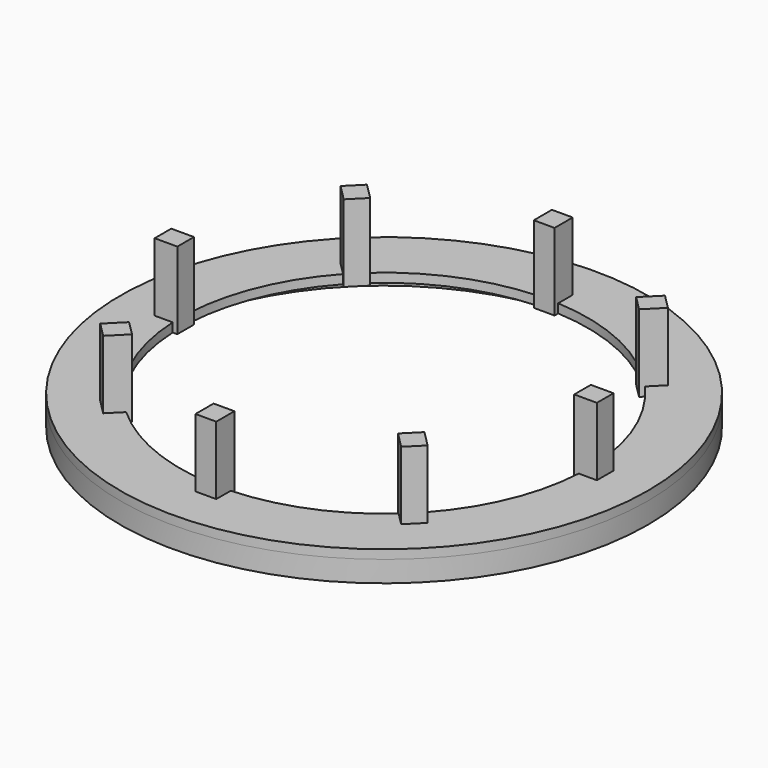
from build123d import *

# Parameters (mm, degrees)
F0_R     = 74.8284
F0_R_2   = 67.8942
F1_DEPTH = 5.969
F2_R     = 74.8284
F2_R_2   = 57.8104
F3_DEPTH = 2.54
F4_W     = 6.424342
F4_H     = 5.888975
F4_W_2   = 5.888975
F4_H_2   = 6.424342
F5_DEPTH = 21.8694


with BuildPart() as f1:
    # F0 (on Top) → F1 (new body)
    with BuildSketch(Plane.XY):
        Circle(F0_R)
        Circle(F0_R_2, mode=Mode.SUBTRACT)
    extrude(amount=-F1_DEPTH)

    # F2 (on Top) → F3 (join)
    with BuildSketch(Plane.XY):
        Circle(F2_R)
        Circle(F2_R_2, mode=Mode.SUBTRACT)
    extrude(amount=F3_DEPTH)

    # F4 (on Top) → F5 (join)
    with BuildSketch(Plane.XY):
        with Locations((-59.654696, 0.23042)):
            Rectangle(F4_W, F4_H)
        Polygon((-42.155891, -37.665894), (-46.698586, -42.208589), (-42.534452, -46.372723), (-37.991757, -41.830028), align=None)
        with Locations((-0.23042, -59.654696)):
            Rectangle(F4_W_2, F4_H_2)
        Polygon((37.665894, -42.155891), (42.208589, -46.698586), (46.372723, -42.534452), (41.830028, -37.991757), align=None)
        with Locations((59.654696, -0.23042)):
            Rectangle(F4_W, F4_H)
        Polygon((42.155891, 37.665894), (46.698586, 42.208589), (42.534452, 46.372723), (37.991757, 41.830028), align=None)
        with Locations((0.23042, 59.654696)):
            Rectangle(F4_W_2, F4_H_2)
        Polygon((-37.665894, 42.155891), (-42.208589, 46.698586), (-46.372723, 42.534452), (-41.830028, 37.991757), align=None)
    extrude(amount=F5_DEPTH)


solid = f1.part
